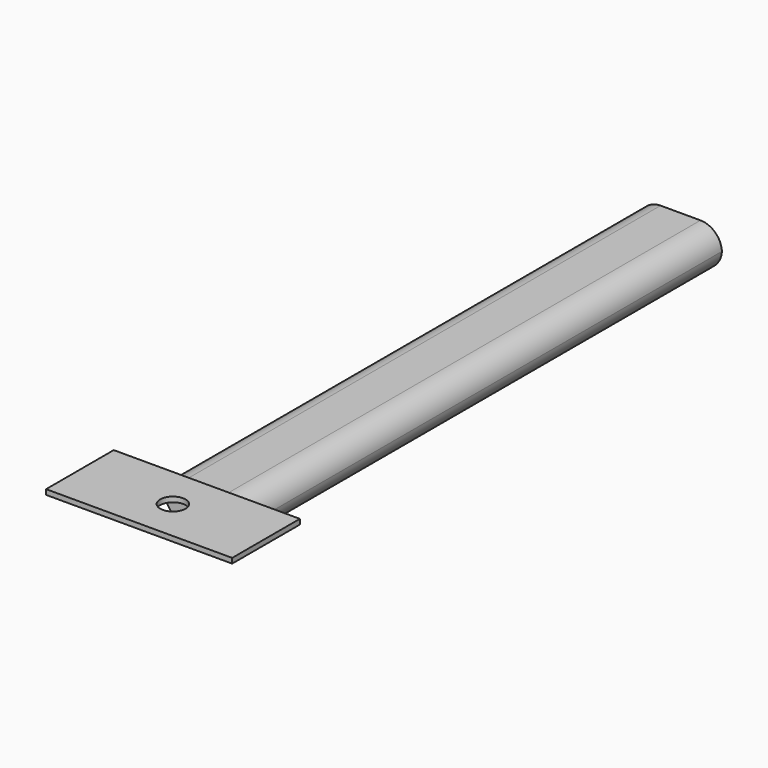
from build123d import *

# Parameters (mm, degrees)
F1_DEPTH = 175
F3_DEPTH = 25
F4_W     = 110
F4_H     = 50
F5_DEPTH = 22
F6_SIZE  = 3
F7_R     = 7.5
F8_DEPTH = 25


with BuildPart() as f1:
    # F0 (on Front) → F1 (new body, symmetric)
    with BuildSketch(Plane.XZ):
        with BuildLine():
            ThreePointArc((0.0193060127, 12), (3.9707388629, 3.4755758987), (12.7, 0))
            Line((12.7, 0), (36.3, 0))
            ThreePointArc((36.3, 0), (45.0292611371, 3.4755758987), (48.9806939873, 12))
            ThreePointArc((48.9806939873, 12), (45.0292611371, 20.5244241013), (36.3, 24))
            Line((36.3, 24), (12.7, 24))
            ThreePointArc((12.7, 24), (3.9707388629, 20.5244241013), (0.0193060127, 12))
        make_face()
    extrude(amount=F1_DEPTH, both=True)

    # F2 (on face) → F3 (join)
    with BuildSketch(Plane(origin=(0, 0, 0), x_dir=(1, 0, 0), z_dir=(0, 0, -1))):
        Polygon((79.5, 175), (79.5, 200), (79.5, 225), (-30.5, 225), (-30.5, 175), align=None)
    extrude(amount=-F3_DEPTH)

    # F4 (on face) → F5 (cut)
    with BuildSketch(Plane(origin=(0, 0, 0), x_dir=(1, 0, 0), z_dir=(0, 0, -1))):
        with Locations((24.5, 200)):
            Rectangle(F4_W, F4_H)
    extrude(amount=-F5_DEPTH, mode=Mode.SUBTRACT)

    # F6
    f6_edges = [f1.edges().sort_by_distance(p)[0] for p in [
        (24.5, -175, 22),
    ]]
    chamfer(f6_edges, length=F6_SIZE)

    # F7 (on face) → F8 (cut)
    with BuildSketch(Plane(origin=(0, 0, 22), x_dir=(1, 0, 0), z_dir=(0, 0, -1))):
        with Locations((24.5, 200.0529274344)):
            Circle(F7_R)
    extrude(amount=-F8_DEPTH, mode=Mode.SUBTRACT)


solid = f1.part
